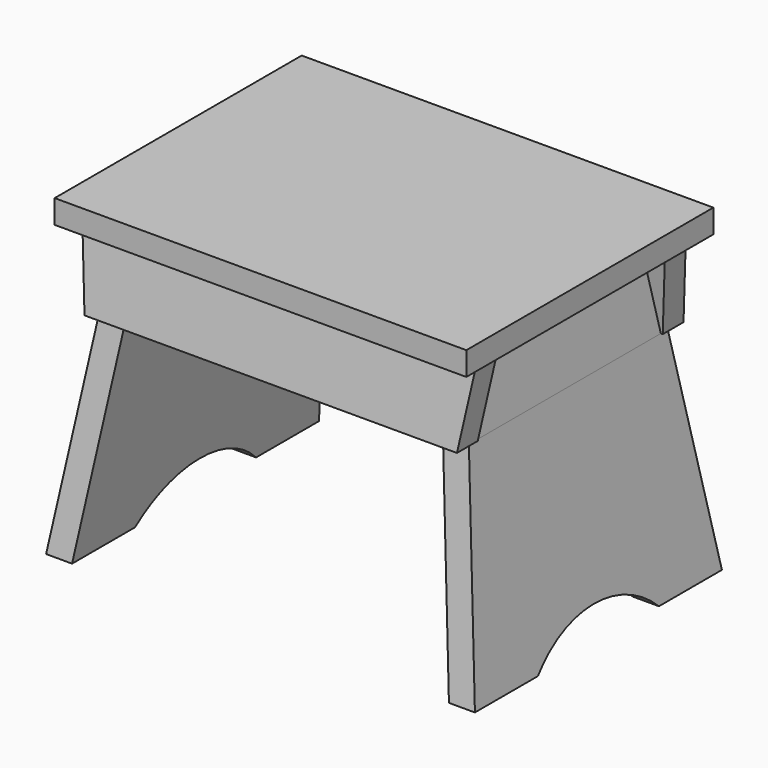
from build123d import *

# Parameters (mm, degrees)
F1_DEPTH      = 114.3
F2_DEPTH      = 114.3
F2_DEPTH_BACK = 114.3
F4_DEPTH      = 158.751
F4_DEPTH_BACK = 158.751
F6_DEPTH      = 152.4
F6_DEPTH_BACK = 152.4
F7_DEPTH      = 114.301
F7_DEPTH_BACK = 114.301


with BuildPart() as f1:
    # F0 (on Front) → F1 (new body, symmetric)
    with BuildSketch(Plane.XZ):
        Polygon((-152.4, 8.73125), (-152.4, -8.73125), (-146.05, -8.73125), (-128.3052212236, -8.73125), (-109.0680059671, -8.73125), (109.0680059671, -8.73125), (128.3052212236, -8.73125), (146.05, -8.73125), (152.4, -8.73125), (152.4, 8.73125), align=None)
    extrude(amount=F1_DEPTH, both=True)


with BuildPart() as f2:
    # F0 (on Front) → F2 (new body, two sides)
    with BuildSketch(Plane.XZ) as f2_sk:
        Polygon((-109.0680059671, -8.73125), (-128.3052212236, -8.73125), (-136.4717662259, -66.8392370463), (-117.2345509694, -66.8392370463), align=None)
        Polygon((-117.2345509694, -66.8392370463), (-136.4717662259, -66.8392370463), (-158.75, -225.3571071106), (-139.5127847435, -225.3571071106), align=None)
    extrude(amount=F2_DEPTH)
    extrude(f2_sk.sketch, amount=-F2_DEPTH_BACK)


with BuildPart() as f2b:
    # F0 (on Front) → F2, piece 2 (new body, two sides)
    with BuildSketch(Plane.XZ) as f2_2_sk:
        Polygon((128.3052212236, -8.73125), (109.0680059671, -8.73125), (117.2345509694, -66.8392370463), (136.4717662259, -66.8392370463), align=None)
        Polygon((136.4717662259, -66.8392370463), (117.2345509694, -66.8392370463), (139.5127847435, -225.3571071106), (158.75, -225.3571071106), align=None)
    extrude(amount=F2_DEPTH)
    extrude(f2_2_sk.sketch, amount=-F2_DEPTH_BACK)


with BuildPart() as f4_tool:
    # F3 (on Right) → F4 (new body, two sides)
    with BuildSketch(Plane.YZ) as f4_sk:
        Polygon((-114.3, -225.3571071106), (-83.8552212236, -8.73125), (-114.3000000004, -8.73125), align=None)
        with BuildLine():
            Line((-56.0122208133, -225.3571071106), (56.0122208133, -225.3571071106))
            ThreePointArc((56.0122208133, -225.3571071106), (0, -201.9951121331), (-56.0122208133, -225.3571071106))
        make_face()
        Polygon((114.3, -225.3571071106), (114.3, -8.73125), (83.8552212236, -8.73125), align=None)
    extrude(amount=-F4_DEPTH)
    extrude(f4_sk.sketch, amount=F4_DEPTH_BACK)


with BuildPart() as f2_1:
    add(f2.part)

    # F4: cut by f4_tool
    add(f4_tool.part, mode=Mode.SUBTRACT)


with BuildPart() as f2b_1:
    add(f2b.part)

    # F4: cut by f4_tool
    add(f4_tool.part, mode=Mode.SUBTRACT)


with BuildPart() as f6:
    # F5 (on Right) → F6 (new body, two sides)
    with BuildSketch(Plane.YZ) as f6_sk:
        Polygon((-77.4428161381, -8.73125), (-83.8552212236, -8.73125), (-92.021766226, -66.8392370463), (-85.6093611405, -66.8392370463), align=None)
        Polygon((-92.021766226, -66.8392370463), (-83.8552212236, -8.73125), (-96.6800313946, -8.73125), (-104.846576397, -66.8392370463), align=None)
    extrude(amount=F6_DEPTH)
    extrude(f6_sk.sketch, amount=-F6_DEPTH_BACK)


with BuildPart() as f6b:
    # F5 (on Right) → F6, piece 2 (new body, two sides)
    with BuildSketch(Plane.YZ) as f6_2_sk:
        Polygon((83.8552212236, -8.73125), (77.4428161381, -8.73125), (85.6093611405, -66.8392370463), (92.0217662259, -66.8392370463), align=None)
        Polygon((96.6800313946, -8.73125), (83.8552212236, -8.73125), (92.0217662259, -66.8392370463), (104.846576397, -66.8392370463), align=None)
    extrude(amount=F6_DEPTH)
    extrude(f6_2_sk.sketch, amount=-F6_DEPTH_BACK)


with BuildPart() as f7_tool:
    # F0 (on Front) → F7 (new body, two sides)
    with BuildSketch(Plane.XZ) as f7_sk:
        Polygon((-146.05, -8.73125), (-152.4, -8.73125), (-152.4, -66.8392370463), (-137.8834549976, -66.8392370463), align=None)
        Polygon((152.4, -66.8392370463), (152.4, -8.73125), (146.05, -8.73125), (137.8834549976, -66.8392370463), align=None)
    extrude(amount=-F7_DEPTH)
    extrude(f7_sk.sketch, amount=F7_DEPTH_BACK)


with BuildPart() as f6_1:
    add(f6.part)

    # F7: cut by f7_tool
    add(f7_tool.part, mode=Mode.SUBTRACT)

    # F10: cut F2
    add(f2_1.part, mode=Mode.SUBTRACT)

    # F11: cut F2b
    add(f2b_1.part, mode=Mode.SUBTRACT)


with BuildPart() as f6b_1:
    add(f6b.part)

    # F7: cut by f7_tool
    add(f7_tool.part, mode=Mode.SUBTRACT)

    # F8: cut F2
    add(f2_1.part, mode=Mode.SUBTRACT)

    # F9: cut F2b
    add(f2b_1.part, mode=Mode.SUBTRACT)


solid = Compound([f1.part, f2_1.part, f2b_1.part, f6_1.part, f6b_1.part])
